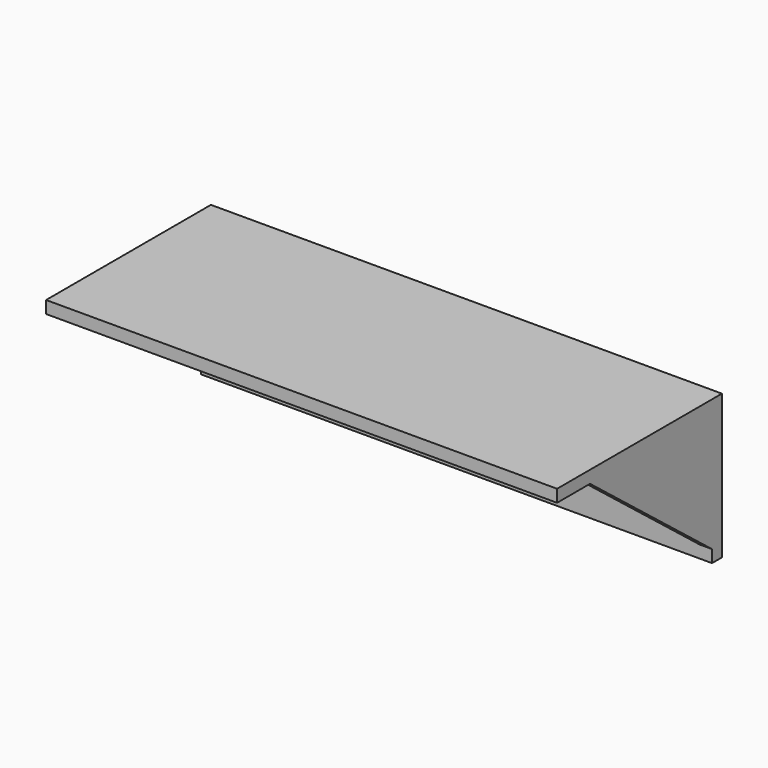
from build123d import *

# Parameters (mm, degrees)
F0_W     = 124
F0_H     = 32
F0_R     = 1.25
F0_R_2   = 5.2
F0_R_3   = 4.95
F1_DEPTH = 3
F0_H_2   = 3
F2_DEPTH = 50
F5_DEPTH = 3
F6_DEPTH = 3


with BuildPart() as f1:
    # F0 (on Front) → F1 (new body)
    with BuildSketch(Plane.XZ):
        with Locations((0, 1)):
            Rectangle(F0_W, F0_H)
        with Locations((-51.4, -8.2)):
            Circle(F0_R, mode=Mode.SUBTRACT)
        with Locations((-51.4, 0)):
            Circle(F0_R_2, mode=Mode.SUBTRACT)
        with Locations((-8.2, 0)):
            Circle(F0_R, mode=Mode.SUBTRACT)
        with Locations((0, -8.2)):
            Circle(F0_R, mode=Mode.SUBTRACT)
        with Locations((51.4, -8.2)):
            Circle(F0_R, mode=Mode.SUBTRACT)
        Circle(F0_R_3, mode=Mode.SUBTRACT)
        with Locations((8.2, 0)):
            Circle(F0_R, mode=Mode.SUBTRACT)
        with Locations((51.4, 0)):
            Circle(F0_R_2, mode=Mode.SUBTRACT)
        with Locations((-51.4, 8.2)):
            Circle(F0_R, mode=Mode.SUBTRACT)
        with Locations((0, 8.2)):
            Circle(F0_R, mode=Mode.SUBTRACT)
        with Locations((51.4, 8.2)):
            Circle(F0_R, mode=Mode.SUBTRACT)
    extrude(amount=F1_DEPTH)

    # F0 (on Front) → F2 (join)
    with BuildSketch(Plane.XZ):
        with Locations((0, 18.5)):
            Rectangle(F0_W, F0_H_2)
    extrude(amount=F2_DEPTH)

    # F4 (on face) → F5 (join)
    with BuildSketch(Plane(origin=(-62, 0, 0), x_dir=(0, -1, 0), z_dir=(-1, 0, 0))):
        Polygon((3, 17), (3, -12), (40, 17), align=None)
    extrude(amount=-F5_DEPTH)

    # F3 (on face) → F6 (join)
    with BuildSketch(Plane.YZ.offset(62)):
        Polygon((-3, 17), (-40, 17), (-3, -12), align=None)
    extrude(amount=-F6_DEPTH)


solid = f1.part
